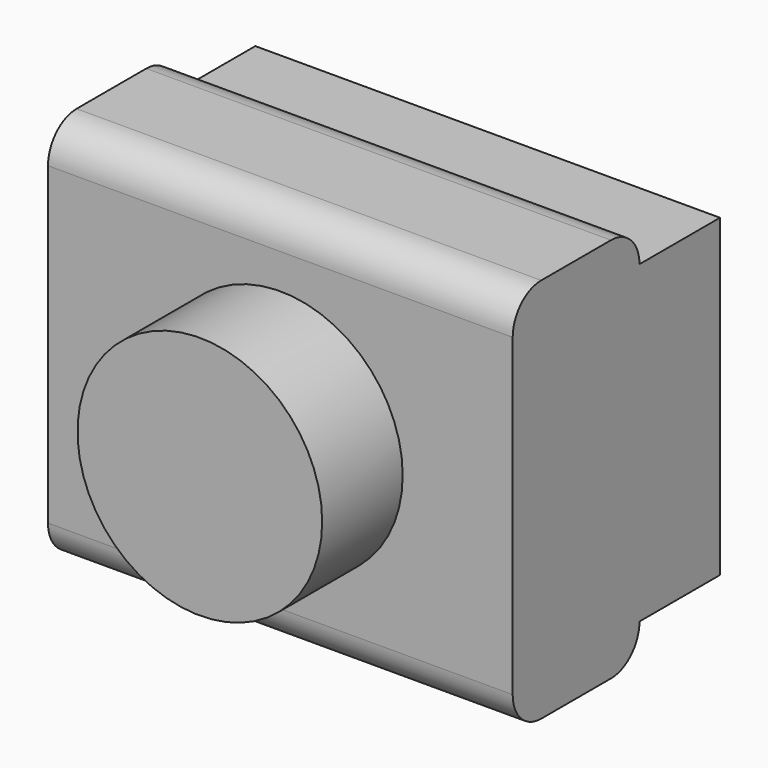
from build123d import *

# Parameters (mm, degrees)
F0_W     = 117.2845363617
F0_H     = 97.3939225078
F1_DEPTH = 40
F2_R     = 9
F4_R     = 30.8763163617
F5_DEPTH = 25.4
F6_DEPTH = 25.4


with BuildPart() as f1:
    # F0 (on Front) → F1 (new body)
    with BuildSketch(Plane.XZ):
        Rectangle(F0_W, F0_H)
    extrude(amount=F1_DEPTH)

    # F2
    f2_edges = [f1.edges().sort_by_distance(p)[0] for p in [
        (0, 0, 48.696961),
        (0, -40, 48.696961),
        (0, -40, -48.696961),
        (0, 0, -48.696961),
    ]]
    fillet(f2_edges, radius=F2_R)

    # F4 (on face) → F5 (join)
    with BuildSketch(Plane.XZ.offset(40)):
        Circle(F4_R)
    extrude(amount=F5_DEPTH)

    # F6 (add): a face of the model
    f6_faces = [f1.faces().sort_by_distance(p)[0] for p in [
        (0, 0, 0),
    ]]
    extrude(f6_faces, amount=F6_DEPTH)


solid = f1.part
